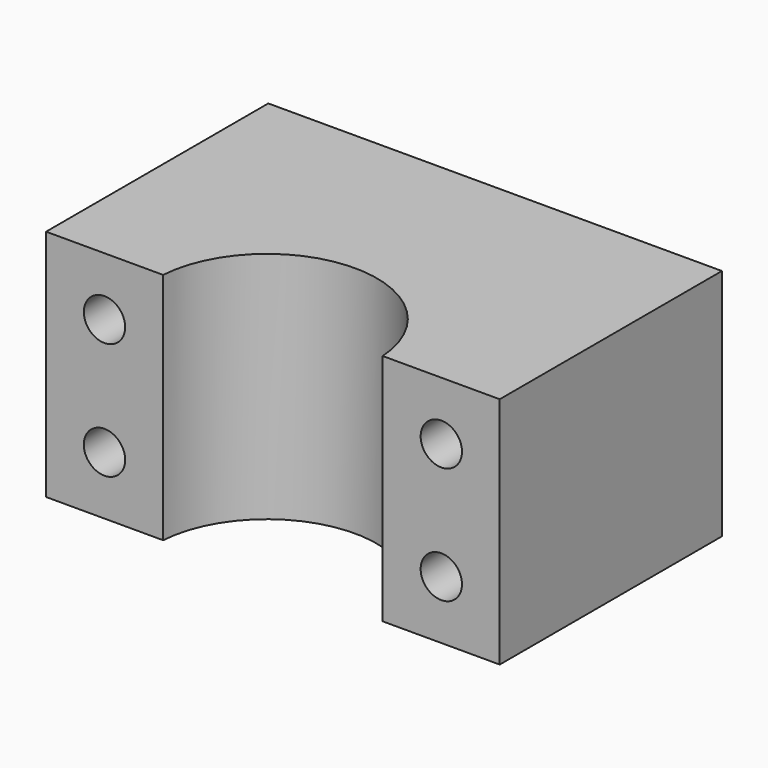
from build123d import *

# Parameters (mm, degrees)
PAD_DEPTH    = 25.4
SKETCH001_R  = 2.248154
POCKET_DEPTH = 30.2016


with BuildPart() as part:
    # Sketch → Pad (new body)
    with BuildSketch(Plane.XY):
        with BuildLine():
            ThreePointArc((11.935765, 0.8128), (0, 11.963408), (-11.935765, 0.8128))
            Line((-24.6634, 0.8128), (-11.935765, 0.8128))
            Line((-24.6634, 31.0134), (-24.6634, 0.8128))
            Line((-24.6634, 31.0134), (24.6634, 31.0134))
            Line((24.6634, 31.0134), (24.6634, 0.8128))
            Line((11.935765, 0.8128), (24.6634, 0.8128))
        make_face()
    extrude(amount=PAD_DEPTH)

    # Sketch001 (on Face4 of Pad) → Pocket (cut, through all)
    with BuildSketch(Plane(origin=(0, 31.0134, 0), x_dir=(-1, 0, 0), z_dir=(0, 1, 0))):
        with Locations((18.3134, 6.35)):
            Circle(SKETCH001_R)
        with Locations((18.3134, 19.05)):
            Circle(SKETCH001_R)
        with Locations((-18.3134, 19.05)):
            Circle(SKETCH001_R)
        with Locations((-18.3134, 6.35)):
            Circle(SKETCH001_R)
    extrude(amount=-POCKET_DEPTH, mode=Mode.SUBTRACT)


solid = part.part
